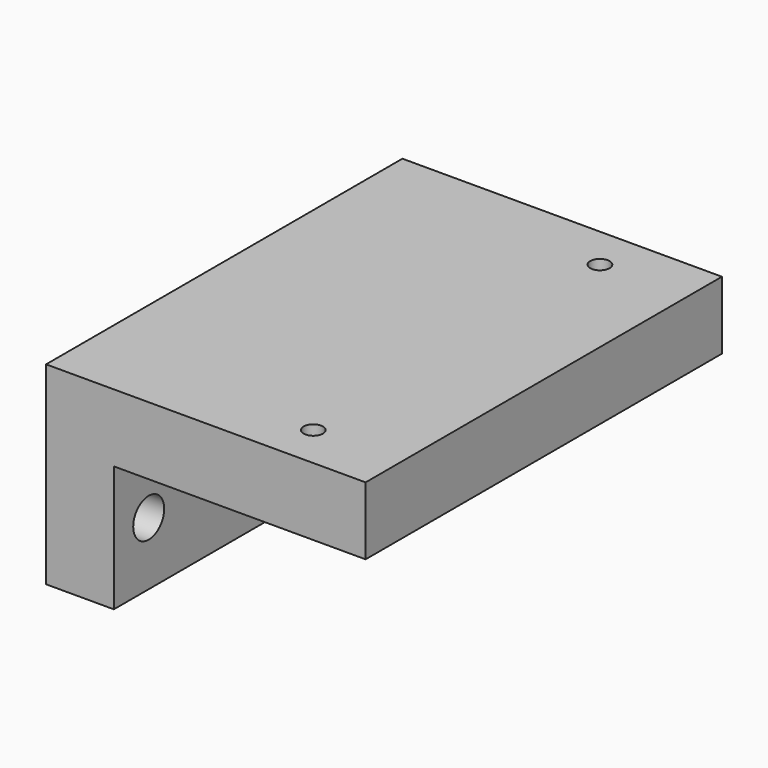
from build123d import *

# Parameters (mm, degrees)
F1_DEPTH = 46
F2_R     = 1
F3_DEPTH = 20.001
F5_D     = 4


with BuildPart() as f1:
    # F0 (on Front) → F1 (new body)
    with BuildSketch(Plane.XZ):
        Polygon((33, 0), (0, 0), (0, -20), (7, -20), (7, -7), (33, -7), align=None)
    extrude(amount=F1_DEPTH)

    # F2 (on face) → F3 (cut, through all)
    with BuildSketch(Plane.XY):
        with Locations((24, -4.5)):
            Circle(F2_R)
        with Locations((24, -41.5)):
            Circle(F2_R)
    extrude(amount=-F3_DEPTH, mode=Mode.SUBTRACT)

    # F5 (through all)
    with Locations(Plane.YZ.offset(7)):
        with Locations((-41.5, -13.5), (-4.5, -13.5)):
            Hole(F5_D / 2)


solid = f1.part
